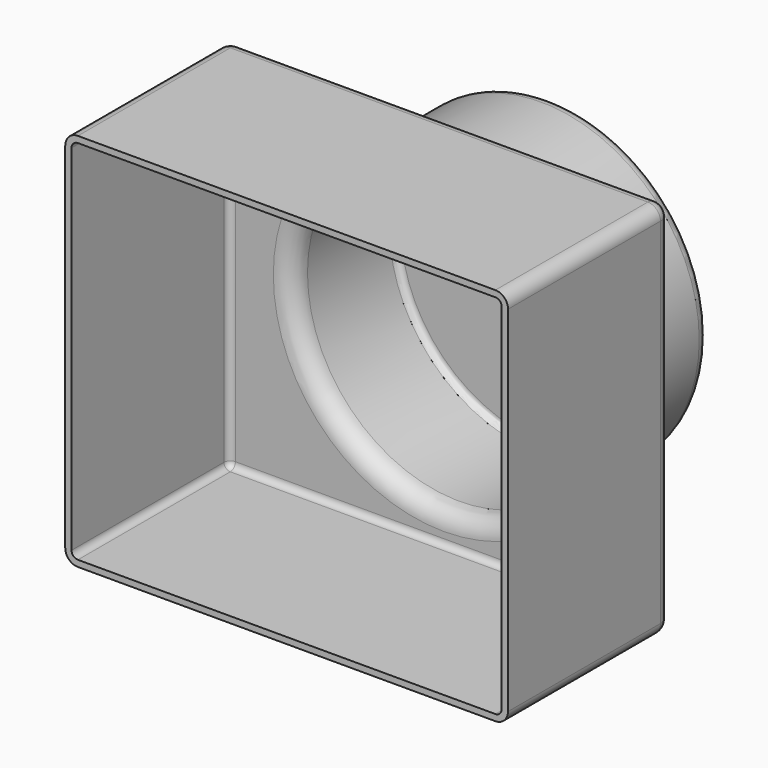
from build123d import *

# Parameters (mm, degrees)
F0_W     = 177.8
F0_H     = 152.4
F1_DEPTH = 81.59288
F2_R     = 63.5
F3_DEPTH = 51.22014
F4_R     = 5.08
F5_R     = 5.08
F6_T     = -2.54


with BuildPart() as f1:
    # F0 (on Front) → F1 (new body)
    with BuildSketch(Plane.XZ):
        Rectangle(F0_W, F0_H)
    extrude(amount=-F1_DEPTH)

    # F2 (on face) → F3 (join)
    with BuildSketch(Plane(origin=(0, 81.59288, 0), x_dir=(-1, 0, 0), z_dir=(0, 1, 0))):
        Circle(F2_R)
    extrude(amount=F3_DEPTH)

    # F4
    f4_edges = [f1.edges().sort_by_distance(p)[0] for p in [
        (63.5, 81.59288, 0),
        (63.5, 132.81302, 0),
        (-88.9, 40.79644, 76.2),
        (88.9, 40.79644, 76.2),
        (-88.9, 40.79644, -76.2),
        (88.9, 40.79644, -76.2),
    ]]
    fillet(f4_edges, radius=F4_R)

    # F5
    f5_edges = [f1.edges().sort_by_distance(p)[0] for p in [
        (0, 81.59288, -76.2),
    ]]
    fillet(f5_edges, radius=F5_R)

    # F6
    f6_openings = [f1.faces().sort_by_distance(p)[0] for p in [
        (0, 0, 0),
    ]]
    offset(amount=F6_T, openings=f6_openings)


solid = f1.part
